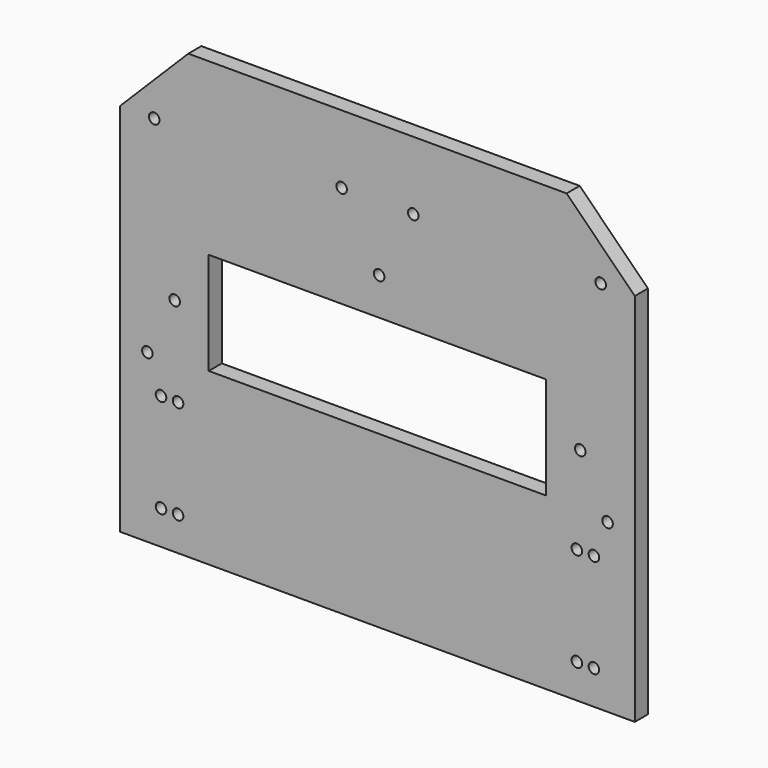
from build123d import *

# Parameters (mm, degrees)
F0_W     = 151
F0_H     = 130
F1_DEPTH = 4.8
F2_W     = 99
F2_H     = 30
F2_R     = 1.55
F3_DEPTH = 4.8
F4_SIZE  = 20
F5_SIZE  = 20


with BuildPart() as f1:
    # F0 (on Front) → F1 (new body)
    with BuildSketch(Plane.XZ):
        Rectangle(F0_W, F0_H)
    extrude(amount=F1_DEPTH)

    # F2 (on face) → F3 (cut)
    with BuildSketch(Plane.XZ.offset(4.8)):
        Rectangle(F2_W, F2_H)
        with Locations((-59.5, 0)):
            Circle(F2_R)
        with Locations((59.5, 0)):
            Circle(F2_R)
        with Locations((-63.5, -55)):
            Circle(F2_R)
        with Locations((63.5, -55)):
            Circle(F2_R)
        with Locations((-58.5, -55)):
            Circle(F2_R)
        with Locations((58.5, -55)):
            Circle(F2_R)
        with Locations((-63.5, -26)):
            Circle(F2_R)
        with Locations((-58.5, -26)):
            Circle(F2_R)
        with Locations((63.5, -26)):
            Circle(F2_R)
        with Locations((58.5, -26)):
            Circle(F2_R)
        with Locations((65.5, 45)):
            Circle(F2_R)
        with Locations((-65.5, 45)):
            Circle(F2_R)
        with Locations((67.5, -16)):
            Circle(F2_R)
        with Locations((-67.5, -16)):
            Circle(F2_R)
        with Locations((10.5, 45)):
            Circle(F2_R)
        with Locations((-10.5, 45)):
            Circle(F2_R)
        with Locations((0.5, 26)):
            Circle(F2_R)
    extrude(amount=-F3_DEPTH, mode=Mode.SUBTRACT)

    # F4
    f4_edges = [f1.edges().sort_by_distance(p)[0] for p in [
        (-75.5, -2.4, 65),
    ]]
    chamfer(f4_edges, length=F4_SIZE)

    # F5
    f5_edges = [f1.edges().sort_by_distance(p)[0] for p in [
        (75.5, -2.4, 65),
    ]]
    chamfer(f5_edges, length=F5_SIZE)


solid = f1.part
